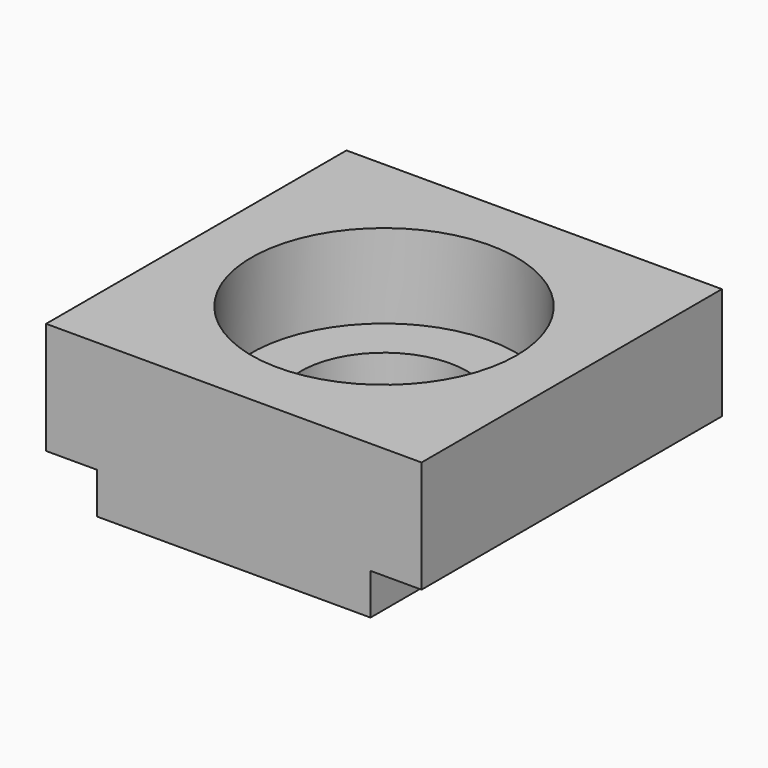
from build123d import *

# Parameters (mm, degrees)
PAD_DEPTH       = 11.4
SKETCH002_W     = 1.5
SKETCH002_H     = 1.5
POCKET_DEPTH    = 3
SKETCH003_W     = 1.5
SKETCH003_H     = 1.5
POCKET001_DEPTH = 3


with BuildPart() as part:
    # Sketch → Pad (new body, symmetric)
    with BuildSketch(Plane.XZ):
        Polygon((-11.4, 9.3), (11.4, 9.3), (11.4, 2.5), (8.3, 2.5), (8.3, 0), (-8.3, 0), (-8.3, 2.5), (-11.4, 2.5), align=None)
    extrude(amount=PAD_DEPTH, both=True)

    # Sketch001 → Groove (revolve, cut)
    with BuildSketch(Plane.XZ):
        Polygon((0, 9.3), (8.05, 9.3), (8.05, 4.2), (5.05, 4.2), (5.05, 0), (0, 0), align=None)
    revolve(axis=Axis((0, 0, 0), (0, 0, 1)), mode=Mode.SUBTRACT)

    # Sketch002 → Pocket (cut)
    with BuildSketch(Plane(origin=(0, 0, 0), x_dir=(-1, 0, 0), z_dir=(0, 0, -1))):
        with Locations((0, 9.15)):
            Rectangle(SKETCH002_W, SKETCH002_H)
    extrude(amount=-POCKET_DEPTH, mode=Mode.SUBTRACT)

    # Sketch003 → Pocket001 (cut)
    with BuildSketch(Plane(origin=(0, 11.4, 0), x_dir=(-1, 0, 0), z_dir=(0, 1, 0))):
        with Locations((0, 2.25)):
            Rectangle(SKETCH003_W, SKETCH003_H)
    extrude(amount=-POCKET001_DEPTH, mode=Mode.SUBTRACT)


solid = part.part
